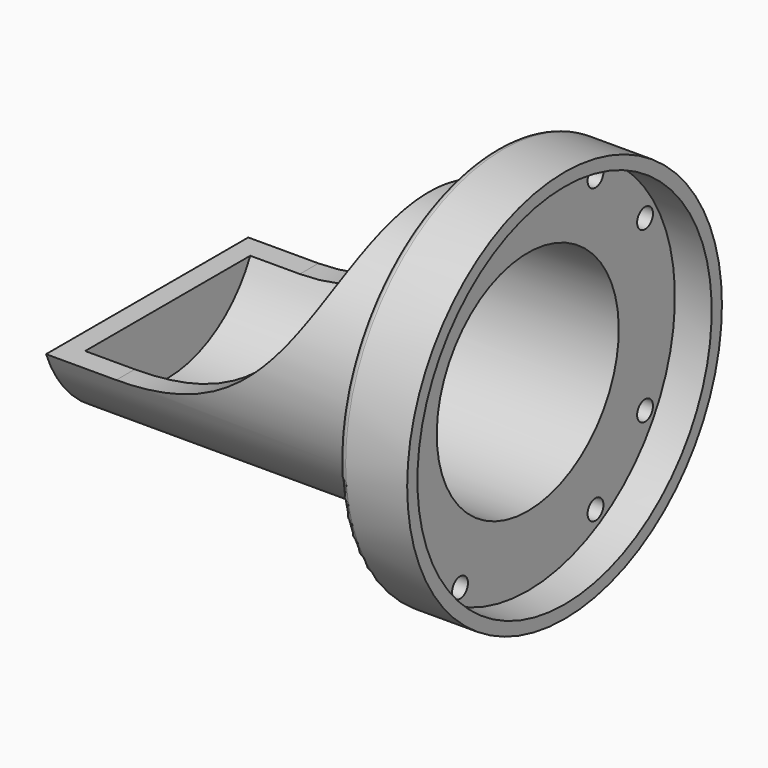
from build123d import *

# Parameters (mm, degrees)
F3_DEPTH = 29.0322
F5_D     = 2.9464


with BuildPart() as f1:
    # F0 (on Front) → F1 (revolve)
    with BuildSketch(Plane.XZ):
        with BuildLine():
            Line((-33.2725646531, 12.9185590085), (-33.2725646531, -5.6210034922))
            Line((-33.2725646531, -5.6210034922), (17.0194353469, -5.6210034922))
            ThreePointArc((17.0194353469, -5.6210034922), (18.0970660814, -6.0673727577), (18.5434353469, -7.1450034922))
            Line((18.5434353469, -7.1450034922), (18.5434353469, -13.7490034922))
            ThreePointArc((18.5434353469, -13.7490034922), (18.8410148572, -14.4674239819), (19.5594353469, -14.7650034922))
            Line((19.5594353469, -14.7650034922), (28.7034353469, -14.7650034922))
            Line((28.7034353469, -14.7650034922), (28.7034353469, -12.8663534922))
            Line((28.7034353469, -12.8663534922), (23.2424353469, -12.8663534922))
            Line((23.2424353469, -12.8663534922), (23.2424353469, -2.4460034922))
            Line((23.2424353469, -2.4460034922), (-30.2245646531, -2.4460034922))
            Line((-30.2245646531, -2.4460034922), (-30.2245646531, 12.9185590085))
            Line((-30.2245646531, 12.9185590085), (-33.2725646531, 12.9185590085))
        make_face()
    revolve(axis=Axis((-6.179202348, 0, 14.4449965078), (1, 0, 0)))

    # F2 (on Front) → F3 (cut, symmetric)
    with BuildSketch(Plane.XZ):
        with BuildLine():
            Line((8.8914353469, 39.0829965078), (8.8914353469, 42.0824922621))
            Line((8.8914353469, 42.0824922621), (-33.2725646531, 42.0824922621))
            Line((-33.2725646531, 42.0824922621), (-33.2725646531, 34.5109965078))
            Line((-33.2725646531, 34.5109965078), (-33.2725646531, 7.3329965078))
            Line((-33.2725646531, 7.3329965078), (-22.8585646531, 7.3329965078))
            ThreePointArc((-22.8585646531, 7.3329965078), (-0.4079243504, 16.6323562051), (8.8914353469, 39.0829965078))
        make_face()
    extrude(amount=F3_DEPTH, both=True, mode=Mode.SUBTRACT)

    # F5 (through all)
    with Locations(Plane(origin=(18.5434353469, 0, 0), x_dir=(0, -1, 0), z_dir=(-1, 0, 0))):
        with Locations((12.573, 36.2127965078), (21.7678, 27.0179965078), (-12.573, 36.2127965078), (-21.7678, 27.0179965078), (21.7678, 1.8719965078), (12.573, -7.3228034922), (-12.573, -7.3228034922), (-21.7678, 1.8719965078)):
            Hole(F5_D / 2)


solid = f1.part
